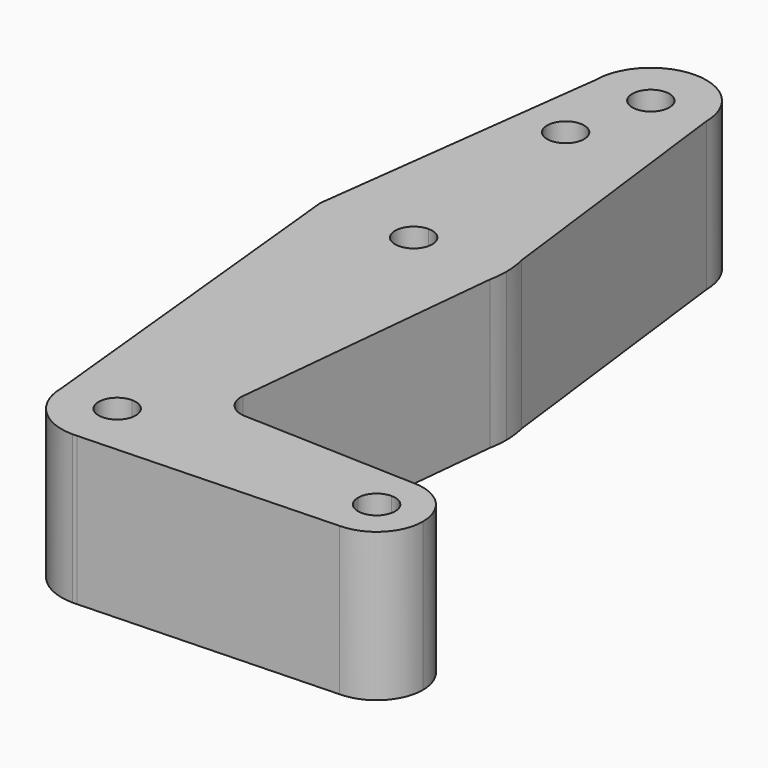
from build123d import *

# Parameters (mm, degrees)
F0_R     = 3.175
F1_DEPTH = 25.4


with BuildPart() as f1:
    # F0 (on Top) → F1 (new body)
    with BuildSketch(Plane.XY):
        with BuildLine():
            ThreePointArc((-9.525, 50.8), (-6.7351920908, 44.0648079092), (0, 41.275))
            ThreePointArc((0, 41.275), (6.7351920908, 44.0648079092), (9.525, 50.8))
            ThreePointArc((9.525, 50.8), (0, 60.325), (-9.525, 50.8))
        make_face()
        with BuildLine():
            ThreePointArc((3.175, 50.8), (2.2450640303, 48.5549359697), (0, 47.625))
            ThreePointArc((0, 47.625), (-2.2450640303, 53.0450640303), (3.175, 50.8))
        make_face(mode=Mode.SUBTRACT)
        with BuildLine():
            ThreePointArc((9.525, 50.8), (6.7351920908, 44.0648079092), (0, 41.275))
            Line((0, 41.275), (0, 36.5252))
            Line((0, 36.5252), (0, 15.875))
            ThreePointArc((0, 15.875), (9.7463072395, 12.5309664508), (15.3865384615, 3.9076923077))
            Line((15.3865384615, 3.9076923077), (9.525, 50.8))
        make_face()
        with BuildLine():
            Line((0, 36.5252), (0, 41.275))
            ThreePointArc((0, 41.275), (-6.7351920908, 44.0648079092), (-9.525, 50.8))
            Line((-9.525, 50.8), (-15.7474568951, 2.0082894055))
            ThreePointArc((-15.7474568951, 2.0082894055), (-10.4912828264, 11.9142188018), (0, 15.875))
            Line((0, 15.875), (0, 36.5252))
        make_face()
        with Locations((-3.175, 36.5252)):
            Circle(F0_R, mode=Mode.SUBTRACT)
        with BuildLine():
            ThreePointArc((15.3865384615, 3.9076923077), (9.7463072395, 12.5309664508), (0, 15.875))
            Line((0, 15.875), (0, 3.175))
            ThreePointArc((0, 3.175), (2.2450640303, 2.2450640303), (3.175, 0))
            ThreePointArc((3.175, 0), (2.2450640303, -2.2450640303), (0, -3.175))
            Line((0, -3.175), (0, -15.875))
            ThreePointArc((0, -15.875), (10.0526499203, -12.2865721249), (15.5606435644, -3.1435643564))
            Line((15.5606435644, -3.1435643564), (15.875, 0))
            Line((15.875, 0), (15.3865384615, 3.9076923077))
        make_face()
        with BuildLine():
            Line((0, 3.175), (0, 15.875))
            ThreePointArc((0, 15.875), (-10.4912828264, 11.9142188018), (-15.7474568951, 2.0082894055))
            ThreePointArc((-15.7474568951, 2.0082894055), (-11.9142188018, -10.4912828264), (0, -15.875))
            Line((0, -15.875), (0, -3.175))
            ThreePointArc((0, -3.175), (-3.175, 0), (0, 3.175))
        make_face()
        with BuildLine():
            ThreePointArc((0, -15.875), (-11.9142188018, -10.4912828264), (-15.7474568951, 2.0082894055))
            Line((-15.7474568951, 2.0082894055), (-16.0035761028, 0))
            Line((-16.0035761028, 0), (-9.525, -63.5))
            ThreePointArc((-9.525, -63.5), (-6.7351920908, -56.7648079092), (0, -53.975))
            Line((0, -53.975), (0, -15.875))
        make_face()
        with BuildLine():
            ThreePointArc((15.875, 0), (15.7524112928, 1.9690514116), (15.3865384615, 3.9076923077))
            Line((15.3865384615, 3.9076923077), (15.875, 0))
        make_face()
        with BuildLine():
            ThreePointArc((15.5606435644, -3.1435643564), (10.0526499203, -12.2865721249), (0, -15.875))
            Line((0, -15.875), (0, -53.975))
            Line((0, -53.975), (0.6794904459, -53.9992675159))
            ThreePointArc((0.6794904459, -53.9992675159), (6.9712901065, -57.0094885216), (9.525, -63.5))
            Line((9.525, -63.5), (36.5125, -63.5))
            ThreePointArc((36.5125, -63.5), (38.8373399243, -57.8873399243), (44.45, -55.5625))
            Line((44.45, -55.5625), (14.6753932646, -54.499121188))
            ThreePointArc((14.6753932646, -54.499121188), (11.8227843813, -53.1408361956), (10.8618983328, -50.1310166722))
            Line((10.8618983328, -50.1310166722), (15.5606435644, -3.1435643564))
        make_face()
        with BuildLine():
            ThreePointArc((15.5606435644, -3.1435643564), (15.7962153946, -1.5796215395), (15.875, 0))
            Line((15.875, 0), (15.5606435644, -3.1435643564))
        make_face()
        with BuildLine():
            Line((0, -60.325), (0, -53.975))
            ThreePointArc((0, -53.975), (-6.7351920908, -56.7648079092), (-9.525, -63.5))
            ThreePointArc((-9.525, -63.5), (-6.7351920908, -70.2351920908), (0, -73.025))
            Line((0, -73.025), (0.6794904459, -73.0007324841))
            ThreePointArc((0.6794904459, -73.0007324841), (6.9712901065, -69.9905114784), (9.525, -63.5))
            Line((9.525, -63.5), (3.175, -63.5))
            ThreePointArc((3.175, -63.5), (-2.2450640303, -65.7450640303), (0, -60.325))
        make_face()
        with BuildLine():
            Line((0.6794904459, -73.0007324841), (0, -73.025))
            ThreePointArc((0, -73.025), (0.3399618281, -73.0189311877), (0.6794904459, -73.0007324841))
        make_face()
        with BuildLine():
            Line((36.5125, -63.5), (9.525, -63.5))
            ThreePointArc((9.525, -63.5), (6.9712901065, -69.9905114784), (0.6794904459, -73.0007324841))
            Line((0.6794904459, -73.0007324841), (44.45, -71.4375))
            ThreePointArc((44.45, -71.4375), (38.8373399243, -69.1126600757), (36.5125, -63.5))
        make_face()
        with BuildLine():
            ThreePointArc((44.45, -55.5625), (38.8373399243, -57.8873399243), (36.5125, -63.5))
            Line((36.5125, -63.5), (41.275, -63.5))
            ThreePointArc((41.275, -63.5), (42.2049359697, -61.2549359697), (44.45, -60.325))
            Line((44.45, -60.325), (44.45, -55.5625))
        make_face()
        with BuildLine():
            Line((41.275, -63.5), (36.5125, -63.5))
            ThreePointArc((36.5125, -63.5), (38.8373399243, -69.1126600757), (44.45, -71.4375))
            Line((44.45, -71.4375), (44.45, -66.675))
            ThreePointArc((44.45, -66.675), (42.2049359697, -65.7450640303), (41.275, -63.5))
        make_face()
        with BuildLine():
            ThreePointArc((52.3875, -63.5), (50.0626600757, -57.8873399243), (44.45, -55.5625))
            Line((44.45, -55.5625), (44.45, -60.325))
            ThreePointArc((44.45, -60.325), (46.6950640303, -61.2549359697), (47.625, -63.5))
            ThreePointArc((47.625, -63.5), (46.6950640303, -65.7450640303), (44.45, -66.675))
            Line((44.45, -66.675), (44.45, -71.4375))
            ThreePointArc((44.45, -71.4375), (50.0626600757, -69.1126600757), (52.3875, -63.5))
        make_face()
        with BuildLine():
            Line((0.6794904459, -53.9992675159), (0, -53.975))
            Line((0, -53.975), (0, -60.325))
            ThreePointArc((0, -60.325), (2.2450640303, -61.2549359697), (3.175, -63.5))
            Line((3.175, -63.5), (9.525, -63.5))
            ThreePointArc((9.525, -63.5), (6.9712901065, -57.0094885216), (0.6794904459, -53.9992675159))
        make_face()
    extrude(amount=F1_DEPTH)


solid = f1.part
